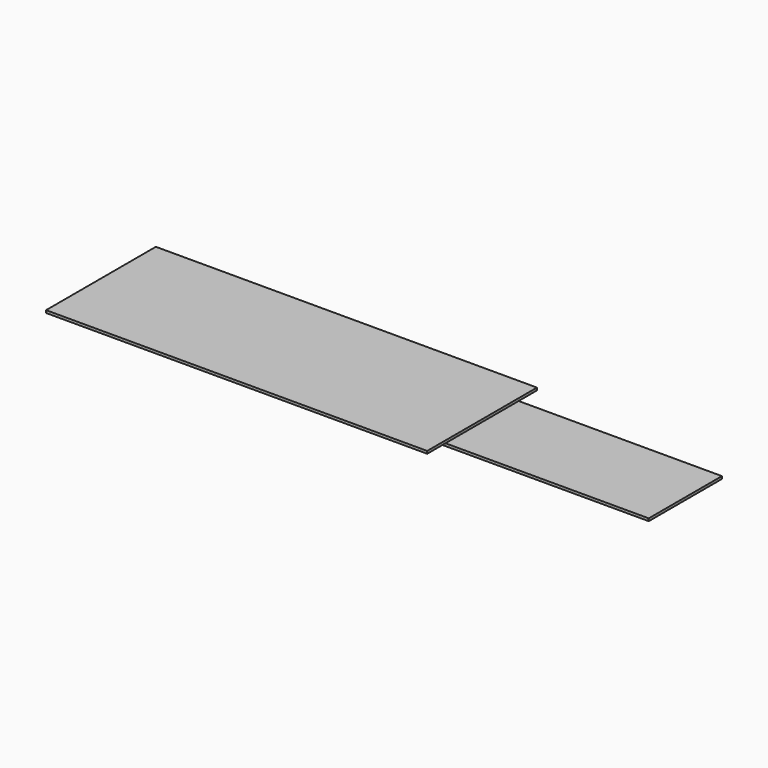
from build123d import *

# Parameters (mm, degrees)
F0_W     = 10.16
F0_H     = 4.572
F1_DEPTH = 0.127
F2_DEPTH = 0.127


with BuildPart() as f1:
    # F0 (on Top) → F1 (new body)
    with BuildSketch(Plane.XY):
        Polygon((-22.505581, -37.240201), (-41.555581, -37.240201), (-41.555581, -44.098201), (-22.505581, -44.098201), (-22.505581, -42.955201), (-32.665581, -42.955201), (-32.665581, -38.383201), (-22.505581, -38.383201), align=None)
        with Locations((-27.585581, -40.669201)):
            Rectangle(F0_W, F0_H)
    extrude(amount=F1_DEPTH)


with BuildPart() as f2:
    # F0 (on Top) → F2 (new body)
    with BuildSketch(Plane.XY):
        with Locations((-27.585581, -40.669201)):
            Rectangle(F0_W, F0_H)
        with Locations((-17.425581, -40.669201)):
            Rectangle(F0_W, F0_H)
    extrude(amount=-F2_DEPTH)


solid = Compound([f1.part, f2.part])
